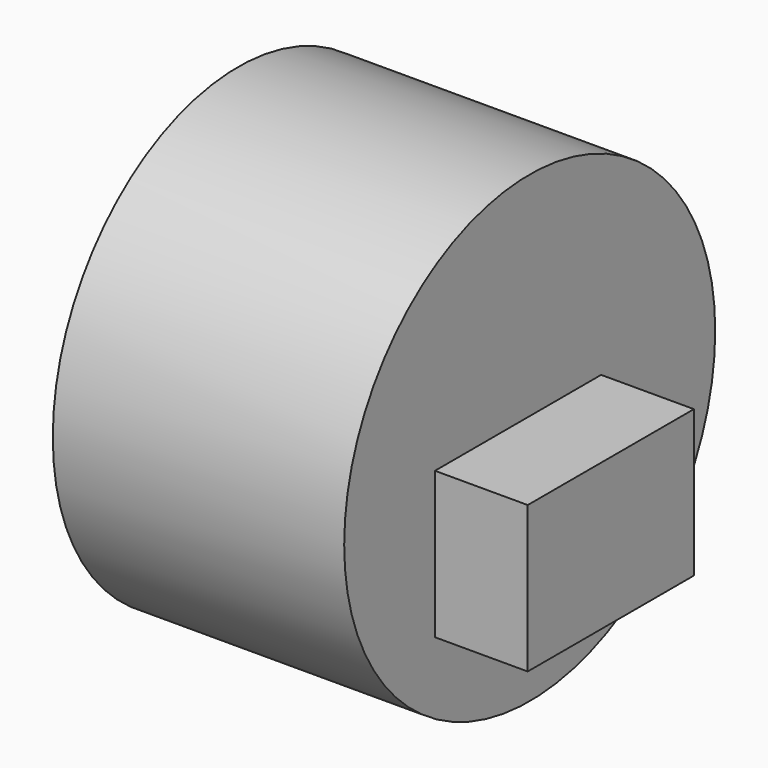
from build123d import *

# Parameters (mm, degrees)
F0_R     = 63.5
F1_DEPTH = 79.796453
F3_DEPTH = 40.894
F4_DEPTH = 25.4


with BuildPart() as f1:
    # F0 (on Right) → F1 (new body)
    with BuildSketch(Plane.YZ):
        with Locations((-24.450228, 23.340883)):
            Circle(F0_R)
    extrude(amount=F1_DEPTH)

    # F2 (on face) → F3 (join)
    with BuildSketch(Plane.YZ.offset(79.796453)):
        Polygon((0, 28.579665), (-56.877885, 28.579665), (-56.877885, -11.546232), (0, -11.546232), (0, 8.516717), align=None)
    extrude(amount=-F3_DEPTH)

    # F2 (on face) → F4 (join)
    with BuildSketch(Plane.YZ.offset(79.796453)):
        Polygon((0, 28.579665), (-56.877885, 28.579665), (-56.877885, -11.546232), (0, -11.546232), (0, 8.516717), align=None)
    extrude(amount=F4_DEPTH)


solid = f1.part
